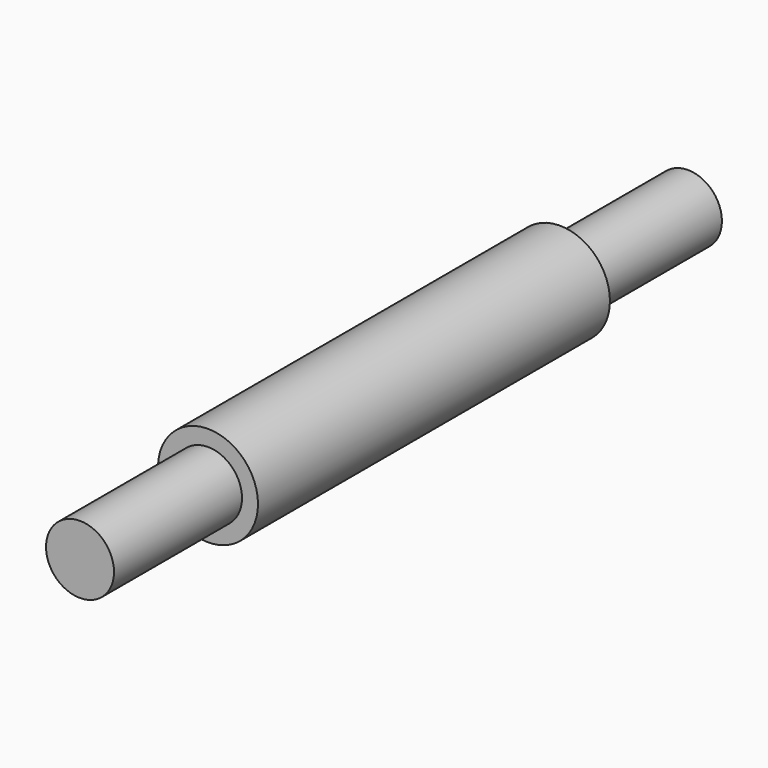
from build123d import *

# Parameters (mm, degrees)
F0_R     = 6.25
F0_R_2   = 4.25
F1_DEPTH = 27.5
F2_DEPTH = 47.5


with BuildPart() as f1:
    # F0 (on Front) → F1 (new body, symmetric)
    with BuildSketch(Plane.XZ):
        Circle(F0_R)
        Circle(F0_R_2, mode=Mode.SUBTRACT)
        Circle(F0_R_2)
    extrude(amount=F1_DEPTH, both=True)

    # F0 (on Front) → F2 (join, symmetric)
    with BuildSketch(Plane.XZ):
        Circle(F0_R_2)
    extrude(amount=F2_DEPTH, both=True)


solid = f1.part
